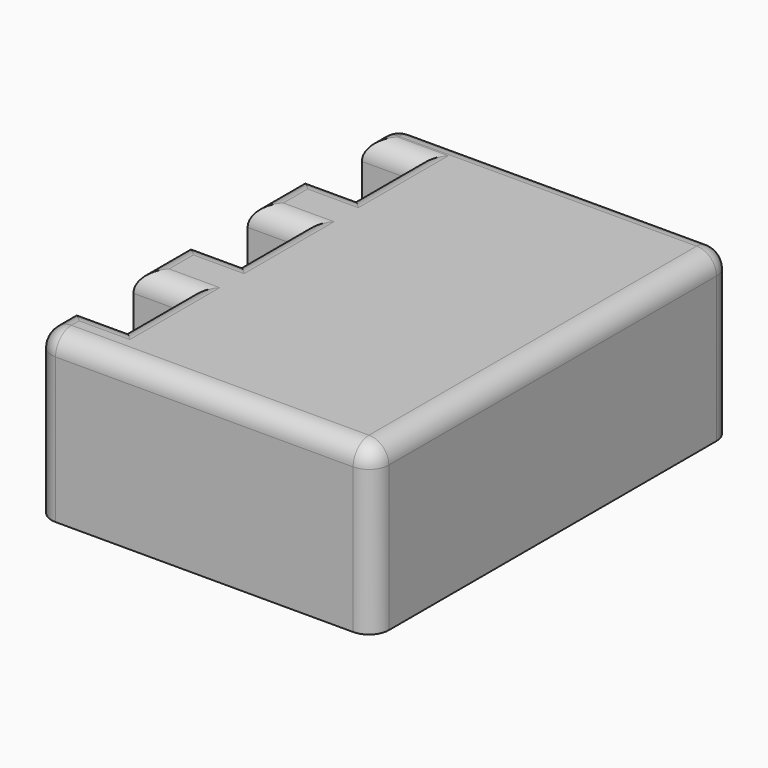
from build123d import *

# Parameters (mm, degrees)
F1_DEPTH = 12.7
F2_T     = -2.54
F3_R     = 3.048


with BuildPart() as f1:
    # F0 (on Top) → F1 (new body, symmetric)
    with BuildSketch(Plane.XY):
        Polygon((25.92500022, -34.52499953), (25.92500022, 34.52499953), (-25.92500022, 34.52499953), (-25.92500022, 28.157905028), (-18.1308021206, 28.157905028), (-18.1308021206, 16.960619828), (-25.92500022, 16.960619828), (-25.92500022, 6.202424428), (-18.1308021206, 6.202424428), (-18.1308021206, -4.9948727434), (-25.92500022, -4.9948727434), (-25.92500022, -15.7530735209), (-18.1308021206, -15.7530735209), (-18.1308021206, -26.9503587209), (-25.92500022, -26.9503587209), (-25.92500022, -34.52499953), align=None)
    extrude(amount=F1_DEPTH, both=True)

    # F2
    f2_openings = [f1.faces().sort_by_distance(p)[0] for p in [
        (1.73799, -0.047637, -12.7),
    ]]
    offset(amount=F2_T, openings=f2_openings, kind=Kind.INTERSECTION)

    # F3
    f3_edges = [f1.edges().sort_by_distance(p)[0] for p in [
        (25.925, 0, 12.7),
        (0, 34.525, 12.7),
        (-25.925, 31.341452, 12.7),
        (-18.130802, 22.559262, 12.7),
        (-22.027901, 16.96062, 12.7),
        (-25.925, 11.581522, 12.7),
        (-22.027901, 6.202424, 12.7),
        (-18.130802, 0.603776, 12.7),
        (-22.027901, -4.994873, 12.7),
        (-25.925, -10.373973, 12.7),
        (-22.027901, -15.753074, 12.7),
        (-18.130802, -21.351716, 12.7),
        (-22.027901, -26.950359, 12.7),
        (-25.925, -30.737679, 12.7),
        (0, -34.525, 12.7),
        (-22.027901, 28.157905, 12.7),
        (-25.925, -34.525, 0),
        (25.925, -34.525, 0),
        (25.925, 34.525, 0),
        (-25.925, 34.525, 0),
    ]]
    fillet(f3_edges, radius=F3_R)


solid = f1.part
